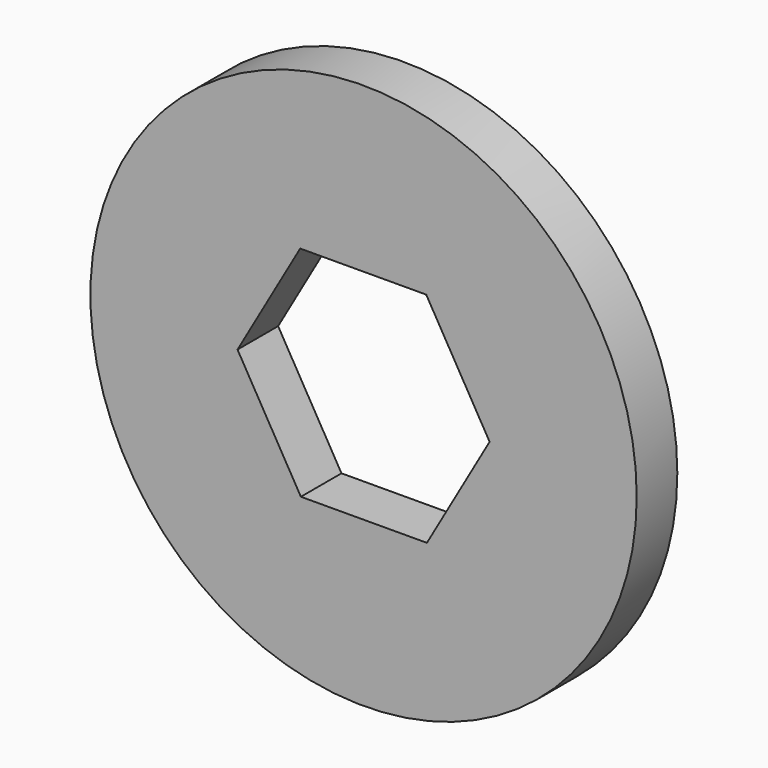
from build123d import *

# Parameters (mm, degrees)
F1_R     = 16.141204
F2_DEPTH = 3
F3_DEPTH = 25


with BuildPart() as f2:
    # F1 (on Front) → F2 (new body)
    with BuildSketch(Plane.XZ):
        Circle(F1_R)
    extrude(amount=F2_DEPTH)

    # F0 (on Front) → F3 (cut)
    with BuildSketch(Plane.XZ):
        Polygon((3.743937, -6.438396), (7.447783, 0.023146), (3.703846, 6.461542), (-3.743937, 6.438396), (-7.447783, -0.023146), (-3.703846, -6.461542), align=None)
    extrude(amount=F3_DEPTH, mode=Mode.SUBTRACT)


solid = f2.part
